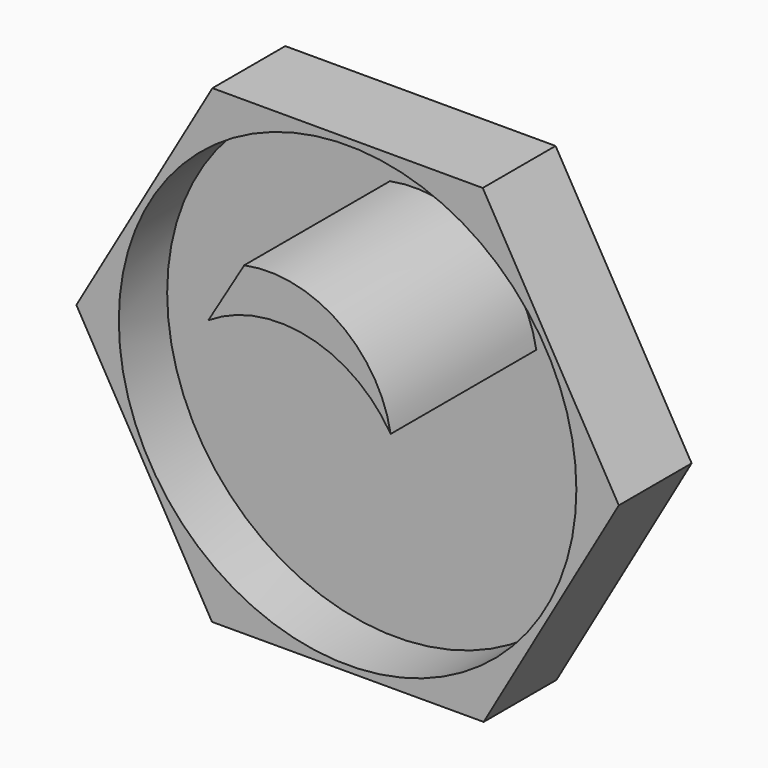
from build123d import *

# Parameters (mm, degrees)
F1_DEPTH = 25
F2_R     = 62.8315
F3_DEPTH = 16.6
F5_DEPTH = 50


with BuildPart() as f1:
    # F0 (on Front) → F1 (new body)
    with BuildSketch(Plane.XZ):
        Polygon((-74.484, 0), (0, 0), (-37.114122, 64.578698), align=None)
        Polygon((-37.114122, 64.578698), (0, 0), (37.114122, 64.578698), align=None)
        Polygon((37.114122, 64.578698), (0, 0), (74.484, 0), align=None)
        Polygon((74.484, 0), (0, 0), (37.369732, -64.431121), align=None)
        Polygon((37.369732, -64.431121), (0, 0), (-37.242, -64.505036), align=None)
        Polygon((-37.242, -64.505036), (0, 0), (-74.484, 0), align=None)
    extrude(amount=F1_DEPTH)

    # F2 (on face) → F3 (cut)
    with BuildSketch(Plane.XZ.offset(25)):
        Circle(F2_R)
    extrude(amount=-F3_DEPTH, mode=Mode.SUBTRACT)

    # F4 (on face) → F5 (join)
    with BuildSketch(Plane.XZ.offset(8.4)):
        with BuildLine():
            ThreePointArc((-11.518612, 30.355605), (15.876825, 35.305832), (38.545772, 19.146203))
            ThreePointArc((38.545772, 19.146203), (24.321415, 41.530617), (-1.657793, 46.866823))
            Line((-1.657793, 46.866823), (-11.518612, 30.355605))
        make_face()
    extrude(amount=F5_DEPTH)


solid = f1.part
